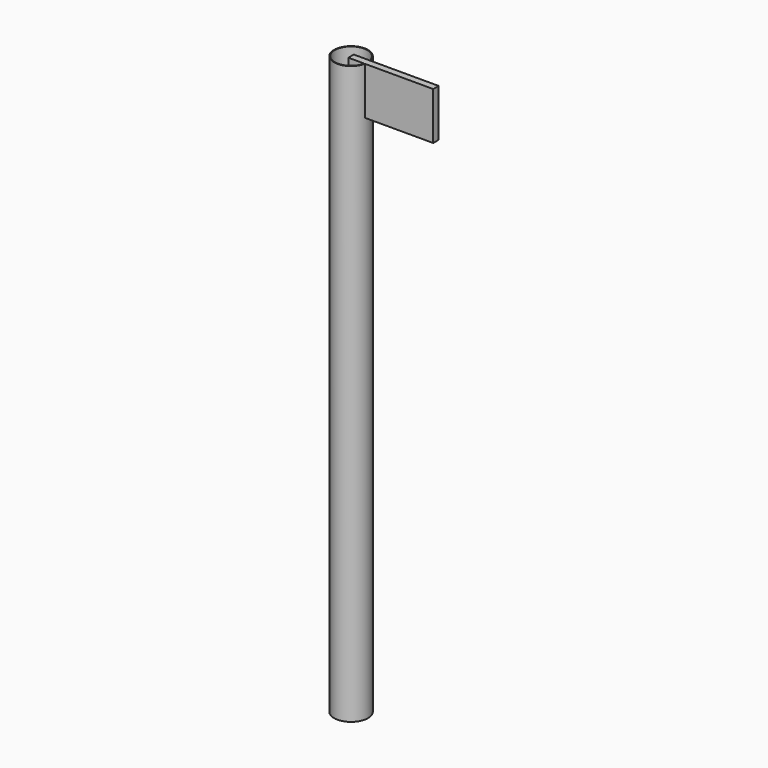
from build123d import *

# Parameters (mm, degrees)
F0_R          = 250
F0_R_2        = 240
F1_DEPTH      = 8500
F2_W          = 1250
F2_H          = 700
F3_DEPTH      = 50
F3_DEPTH_BACK = 50


with BuildPart() as f1:
    # F0 (on Top) → F1 (new body)
    with BuildSketch(Plane.XY):
        Circle(F0_R)
        Circle(F0_R_2, mode=Mode.SUBTRACT)
    extrude(amount=F1_DEPTH)

    # F2 (on Front) → F3 (join, two sides)
    with BuildSketch(Plane.XZ) as f3_sk:
        with Locations((625, 8150)):
            Rectangle(F2_W, F2_H)
    extrude(amount=F3_DEPTH)
    extrude(f3_sk.sketch, amount=-F3_DEPTH_BACK)


solid = f1.part
